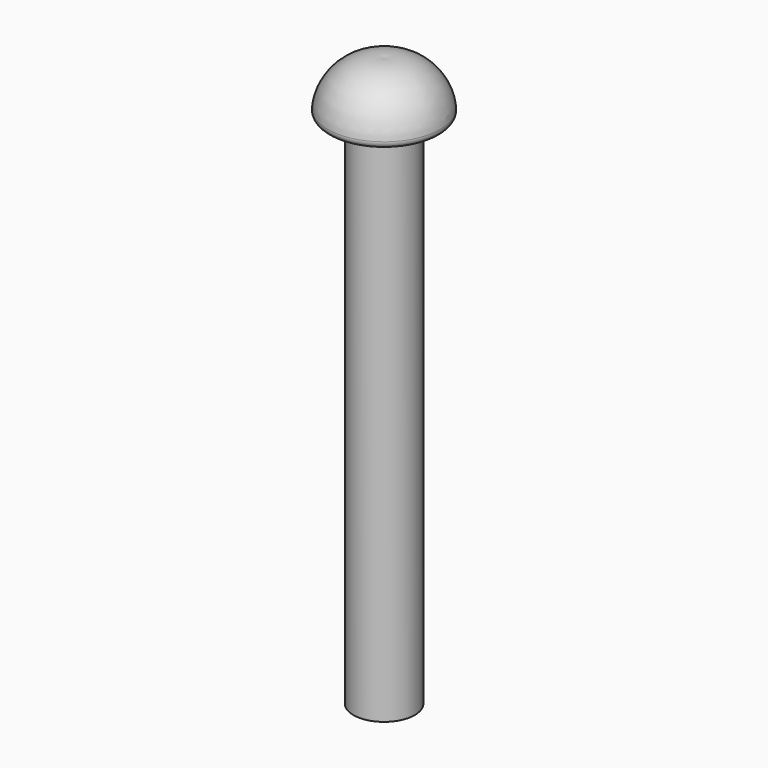
from build123d import *


with BuildPart() as f1:
    # F0 (on Front) → F1 (revolve)
    with BuildSketch(Plane.XZ):
        with BuildLine():
            Line((0, 1.6), (0, -16))
            Line((0, -16), (0.95, -16))
            Line((0.95, -16), (0.95, 0))
            Line((0.95, 0), (1.545978, 0))
            ThreePointArc((1.545978, 0), (1.693852, 0.06534), (1.745105, 0.218667))
            ThreePointArc((1.745105, 0.218667), (1.167726, 1.282241), (0, 1.6))
        make_face()
    revolve(axis=Axis((0, 0, -7.2), (0, 0, -1)))


solid = f1.part
